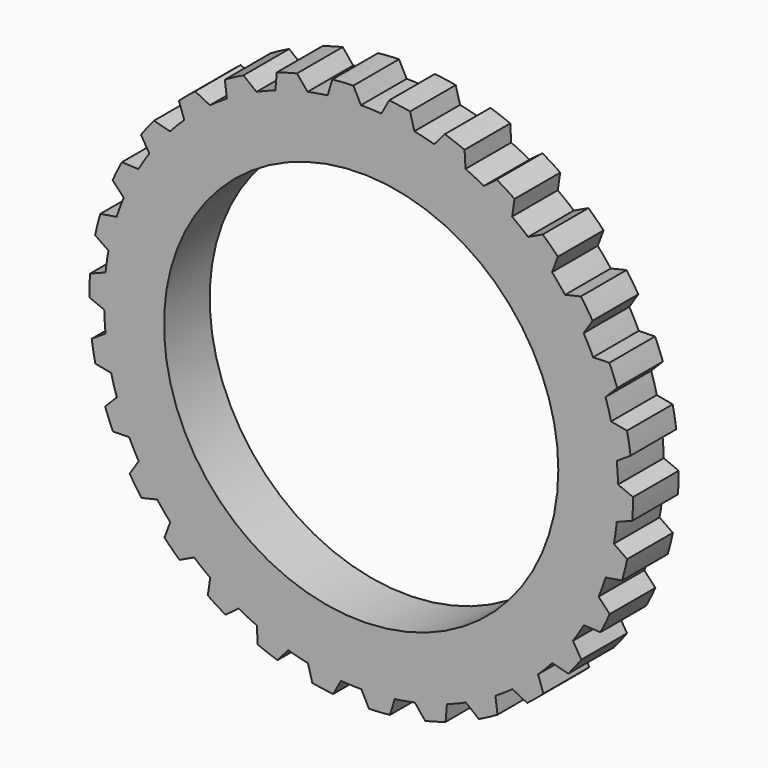
from build123d import *

# Parameters (mm, degrees)
F0_R     = 14.2875
F0_R_2   = 10.9601
F1_DEPTH = 3.175
F3_DEPTH = 3.175


with BuildPart() as f1:
    # F0 (on Front) → F1 (new body)
    with BuildSketch(Plane.XZ):
        Circle(F0_R)
        Circle(F0_R_2, mode=Mode.SUBTRACT)
    extrude(amount=F1_DEPTH)

    # F2 (on Front) → F3 (join, through all)
    with BuildSketch(Plane.XZ):
        with BuildLine():
            Line((0, 14.266242), (-0.433452, 15.106783))
            ThreePointArc((-0.433452, 15.106783), (-1.019514, 15.078573), (-1.604039, 15.027635))
            Line((-1.604039, 15.027635), (-1.897302, 14.050528))
            Line((-1.897302, 14.050528), (0, 14.266242))
        make_face()
        with BuildLine():
            ThreePointArc((-3.564857, 14.686544), (-4.132247, 14.537101), (-4.693408, 14.365747))
            Line((-4.693408, 14.365747), (-4.777111, 13.349018))
            Line((-4.777111, 13.349018), (-2.966118, 13.95449))
            Line((-2.966118, 13.95449), (-3.564857, 14.686544))
        make_face()
        with BuildLine():
            ThreePointArc((-6.54046, 13.624432), (-7.06438, 13.360288), (-7.577653, 13.076007))
            Line((-7.577653, 13.076007), (-7.448136, 12.064093))
            Line((-7.448136, 12.064093), (-5.802603, 13.03286))
            Line((-5.802603, 13.03286), (-6.54046, 13.624432))
        make_face()
        with BuildLine():
            ThreePointArc((-9.230214, 11.966867), (-9.687767, 11.599566), (-10.130717, 11.214782))
            Line((-10.130717, 11.214782), (-9.793643, 10.251909))
            Line((-9.793643, 10.251909), (-8.385486, 11.541632))
            Line((-8.385486, 11.541632), (-9.230214, 11.966867))
        make_face()
        with BuildLine():
            ThreePointArc((-11.516564, 9.786293), (-11.887751, 9.331888), (-12.241021, 8.863418))
            Line((-12.241021, 8.863418), (-11.71112, 7.991668))
            Line((-11.71112, 7.991668), (-10.601884, 9.545979))
            Line((-10.601884, 9.545979), (-11.516564, 9.786293))
        make_face()
        with BuildLine():
            ThreePointArc((-13.299584, 7.178011), (-13.568184, 6.656362), (-13.816334, 6.124679))
            Line((-13.816334, 6.124679), (-13.116765, 5.382152))
            Line((-13.116765, 5.382152), (-12.354928, 7.133121))
            Line((-12.354928, 7.133121), (-13.299584, 7.178011))
        make_face()
        with BuildLine():
            ThreePointArc((-14.501348, 4.256015), (-14.655622, 3.68992), (-14.787806, 3.118263))
            Line((-14.787806, 3.118263), (-13.949144, 2.53741))
            Line((-13.949144, 2.53741), (-13.568002, 4.408511))
            Line((-13.568002, 4.408511), (-14.501348, 4.256015))
        make_face()
        with BuildLine():
            ThreePointArc((-15.069334, 1.148011), (-15.102539, 0.562211), (-15.11298, -0.024436))
            Line((-15.11298, -0.024436), (-14.171879, -0.418229))
            Line((-14.171879, -0.418229), (-14.18809, 1.491228))
            Line((-14.18809, 1.491228), (-15.069334, 1.148011))
        make_face()
        with BuildLine():
            ThreePointArc((-14.978718, -2.010166), (-14.889403, -2.590069), (-14.777645, -3.166068))
            Line((-14.777645, -3.166068), (-13.775235, -3.355589))
            Line((-13.775235, -3.355589), (-14.18809, -1.491228))
            Line((-14.18809, -1.491228), (-14.978718, -2.010166))
        make_face()
        with BuildLine():
            ThreePointArc((-14.23346, -5.08049), (-14.025528, -5.629151), (-13.796455, -6.169326))
            Line((-13.796455, -6.169326), (-12.776547, -6.146293))
            Line((-12.776547, -6.146293), (-13.568002, -4.408511))
            Line((-13.568002, -4.408511), (-14.23346, -5.08049))
        make_face()
        with BuildLine():
            ThreePointArc((-12.866132, -7.928772), (-12.54867, -8.422211), (-12.212295, -8.902956))
            Line((-12.212295, -8.902956), (-11.219463, -8.668376))
            Line((-11.219463, -8.668376), (-12.354928, -7.133121))
            Line((-12.354928, -7.133121), (-12.866132, -7.928772))
        make_face()
        with BuildLine():
            ThreePointArc((-10.936491, -10.430528), (-10.523375, -10.847181), (-10.094398, -11.247484))
            Line((-10.094398, -11.247484), (-9.172034, -10.811608))
            Line((-9.172034, -10.811608), (-10.601884, -9.545979))
            Line((-10.601884, -9.545979), (-10.936491, -10.430528))
        make_face()
        with BuildLine():
            ThreePointArc((-8.528874, -12.476421), (-8.038159, -12.798077), (-7.535328, -13.100443))
            Line((-7.535328, -13.100443), (-6.723743, -12.482322))
            Line((-6.723743, -12.482322), (-8.385486, -11.541632))
            Line((-8.385486, -11.541632), (-8.528874, -12.476421))
        make_face()
        with BuildLine():
            ThreePointArc((-5.748504, -13.977034), (-5.201636, -14.189635), (-4.646927, -14.38085))
            Line((-4.646927, -14.38085), (-3.981593, -13.607498))
            Line((-3.981593, -13.607498), (-5.802603, -13.03286))
            Line((-5.802603, -13.03286), (-5.748504, -13.977034))
        make_face()
        with BuildLine():
            ThreePointArc((-2.716897, -14.866783), (-2.137777, -14.961039), (-1.555434, -15.032744))
            Line((-1.555434, -15.032744), (-1.065427, -14.137961))
            Line((-1.065427, -14.137961), (-2.966118, -13.95449))
            Line((-2.966118, -13.95449), (-2.716897, -14.866783))
        make_face()
        with BuildLine():
            ThreePointArc((0.433452, -15.106783), (1.019514, -15.078573), (1.604039, -15.027635))
            Line((1.604039, -15.027635), (1.897302, -14.050528))
            Line((1.897302, -14.050528), (0, -14.266242))
            Line((0, -14.266242), (0.433452, -15.106783))
        make_face()
        with BuildLine():
            ThreePointArc((3.564857, -14.686544), (4.132247, -14.537101), (4.693408, -14.365747))
            Line((4.693408, -14.365747), (4.777111, -13.349018))
            Line((4.777111, -13.349018), (2.966118, -13.95449))
            Line((2.966118, -13.95449), (3.564857, -14.686544))
        make_face()
        with BuildLine():
            ThreePointArc((6.54046, -13.624432), (7.06438, -13.360288), (7.577653, -13.076007))
            Line((7.577653, -13.076007), (7.448136, -12.064093))
            Line((7.448136, -12.064093), (5.802603, -13.03286))
            Line((5.802603, -13.03286), (6.54046, -13.624432))
        make_face()
        with BuildLine():
            ThreePointArc((9.230214, -11.966867), (9.687767, -11.599566), (10.130717, -11.214782))
            Line((10.130717, -11.214782), (9.793643, -10.251909))
            Line((9.793643, -10.251909), (8.385486, -11.541632))
            Line((8.385486, -11.541632), (9.230214, -11.966867))
        make_face()
        with BuildLine():
            ThreePointArc((11.516564, -9.786293), (11.887751, -9.331888), (12.241021, -8.863418))
            Line((12.241021, -8.863418), (11.71112, -7.991668))
            Line((11.71112, -7.991668), (10.601884, -9.545979))
            Line((10.601884, -9.545979), (11.516564, -9.786293))
        make_face()
        with BuildLine():
            ThreePointArc((13.299584, -7.178011), (13.568184, -6.656362), (13.816334, -6.124679))
            Line((13.816334, -6.124679), (13.116765, -5.382152))
            Line((13.116765, -5.382152), (12.354928, -7.133121))
            Line((12.354928, -7.133121), (13.299584, -7.178011))
        make_face()
        with BuildLine():
            ThreePointArc((14.501348, -4.256015), (14.655622, -3.68992), (14.787806, -3.118263))
            Line((14.787806, -3.118263), (13.949144, -2.53741))
            Line((13.949144, -2.53741), (13.568002, -4.408511))
            Line((13.568002, -4.408511), (14.501348, -4.256015))
        make_face()
        with BuildLine():
            ThreePointArc((15.069334, -1.148011), (15.102539, -0.562211), (15.11298, 0.024436))
            Line((15.11298, 0.024436), (14.171879, 0.418229))
            Line((14.171879, 0.418229), (14.18809, -1.491228))
            Line((14.18809, -1.491228), (15.069334, -1.148011))
        make_face()
        with BuildLine():
            ThreePointArc((14.978718, 2.010166), (14.889403, 2.590069), (14.777645, 3.166068))
            Line((14.777645, 3.166068), (13.775235, 3.355589))
            Line((13.775235, 3.355589), (14.18809, 1.491228))
            Line((14.18809, 1.491228), (14.978718, 2.010166))
        make_face()
        with BuildLine():
            ThreePointArc((14.23346, 5.08049), (14.025528, 5.629151), (13.796455, 6.169326))
            Line((13.796455, 6.169326), (12.776547, 6.146293))
            Line((12.776547, 6.146293), (13.568002, 4.408511))
            Line((13.568002, 4.408511), (14.23346, 5.08049))
        make_face()
        with BuildLine():
            ThreePointArc((12.866132, 7.928772), (12.54867, 8.422211), (12.212295, 8.902956))
            Line((12.212295, 8.902956), (11.219463, 8.668376))
            Line((11.219463, 8.668376), (12.354928, 7.133121))
            Line((12.354928, 7.133121), (12.866132, 7.928772))
        make_face()
        with BuildLine():
            ThreePointArc((10.936491, 10.430528), (10.523375, 10.847181), (10.094398, 11.247484))
            Line((10.094398, 11.247484), (9.172034, 10.811608))
            Line((9.172034, 10.811608), (10.601884, 9.545979))
            Line((10.601884, 9.545979), (10.936491, 10.430528))
        make_face()
        with BuildLine():
            ThreePointArc((8.528874, 12.476421), (8.038159, 12.798077), (7.535328, 13.100443))
            Line((7.535328, 13.100443), (6.723743, 12.482322))
            Line((6.723743, 12.482322), (8.385486, 11.541632))
            Line((8.385486, 11.541632), (8.528874, 12.476421))
        make_face()
        with BuildLine():
            ThreePointArc((5.748504, 13.977034), (5.201636, 14.189635), (4.646927, 14.38085))
            Line((4.646927, 14.38085), (3.981593, 13.607498))
            Line((3.981593, 13.607498), (5.802603, 13.03286))
            Line((5.802603, 13.03286), (5.748504, 13.977034))
        make_face()
        with BuildLine():
            ThreePointArc((2.716897, 14.866783), (2.137777, 14.961039), (1.555434, 15.032744))
            Line((1.555434, 15.032744), (1.065427, 14.137961))
            Line((1.065427, 14.137961), (2.966118, 13.95449))
            Line((2.966118, 13.95449), (2.716897, 14.866783))
        make_face()
    extrude(amount=F3_DEPTH)


solid = f1.part
